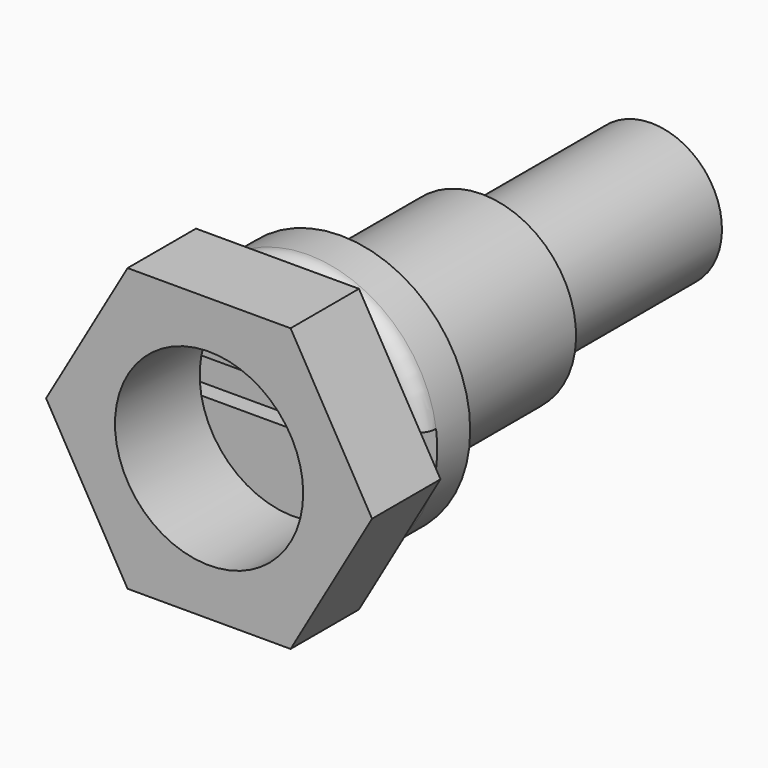
from build123d import *

# Parameters (mm, degrees)
F2_R     = 8
F3_DEPTH = 9
F4_W     = 25
F4_H     = 3
F5_DEPTH = 1.5
F6_R     = 1.5
F7_SIZE2 = 1.7320508076
F7_SIZE  = 3


with BuildPart() as f1:
    # F0 (on Right) → F1 (revolve)
    with BuildSketch(Plane.YZ):
        Polygon((0, 11), (0, 0), (38, 0), (38, 6), (20, 6), (20, 8), (5, 8), (5, 11), align=None)
    revolve(axis=Axis((0, 13.9462187291, 0), (0, 1, 0)))

    # F4 (on face) → F5 (cut)
    with BuildSketch(Plane.XZ):
        with Locations((0.4612209588, 0)):
            Rectangle(F4_W, F4_H)
    extrude(amount=-F5_DEPTH, mode=Mode.SUBTRACT)

    # F6
    f6_edges = [f1.edges().sort_by_distance(p)[0] for p in [
        (-7.228416, 0, 8.291562),
        (7.228416, 0, 8.291562),
        (0, 0, -11),
    ]]
    fillet(f6_edges, radius=F6_R)


with BuildPart() as f3:
    # F2 (on Front) → F3 (new body)
    with BuildSketch(Plane.XZ):
        Polygon((-6.9282032303, -12), (6.9282032303, -12), (13.8564064606, 0), (6.9282032303, 12), (-6.9282032303, 12), (-13.8564064606, 0), align=None)
        Circle(F2_R, mode=Mode.SUBTRACT)
    extrude(amount=F3_DEPTH)

    # F7
    f7_edges = [f3.edges().sort_by_distance(p)[0] for p in [
        (0, 0, 12),
        (10.392305, 0, 6),
        (10.392305, 0, -6),
        (0, 0, -12),
        (-10.392305, 0, -6),
        (-10.392305, 0, 6),
    ]]
    f7_side = f3.faces().sort_by_distance((0, 0, -11.633394))[0]
    chamfer(f7_edges, length=F7_SIZE, length2=F7_SIZE2, reference=f7_side)


solid = Compound([f1.part, f3.part])
